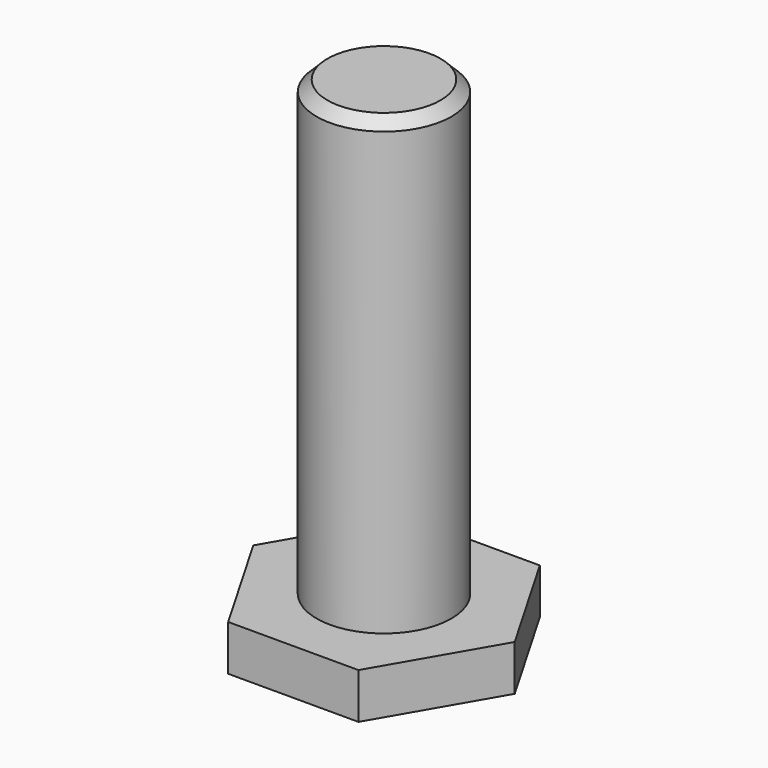
from build123d import *

# Parameters (mm, degrees)
F1_DEPTH = 1.6002
F2_R     = 2.3622
F3_DEPTH = 15.875
F4_SIZE  = 0.381


with BuildPart() as f1:
    # F0 (on Top) → F1 (new body)
    with BuildSketch(Plane.XY):
        Polygon((2.284306, 3.9751), (-2.284306, 3.9751), (-4.5847, 0), (-2.284306, -3.9751), (2.284306, -3.9751), (4.5847, 0), align=None)
    extrude(amount=F1_DEPTH)

    # F2 (on face) → F3 (join)
    with BuildSketch(Plane.XY.offset(1.6002)):
        Circle(F2_R)
    extrude(amount=F3_DEPTH)

    # F4
    f4_edges = [f1.edges().sort_by_distance(p)[0] for p in [
        (-2.3622, 0, 17.4752),
    ]]
    chamfer(f4_edges, length=F4_SIZE)


solid = f1.part
